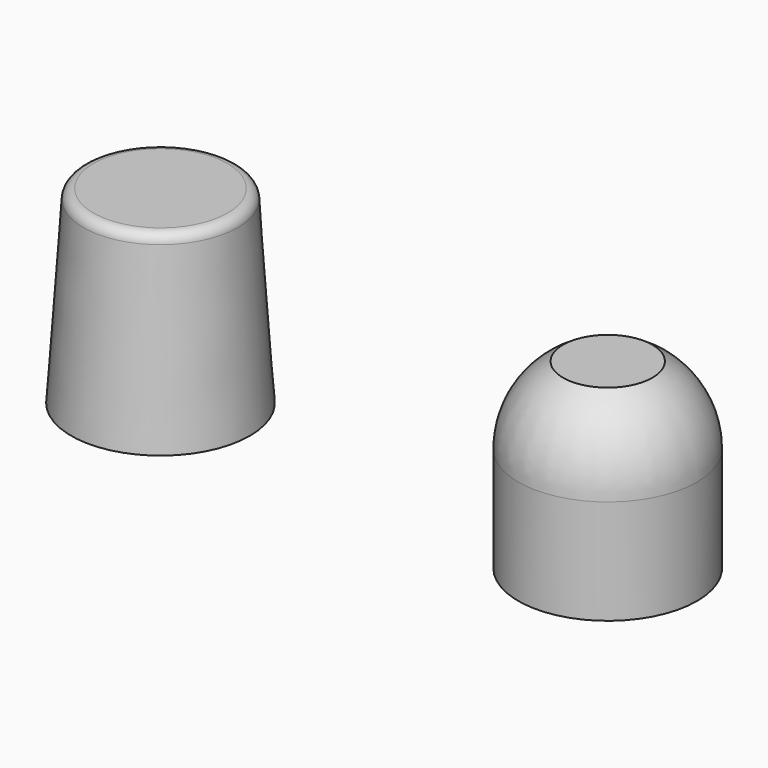
from build123d import *


with BuildPart() as f1:
    # F0 (on Front) → F1 (revolve)
    with BuildSketch(Plane.XZ):
        with BuildLine():
            Line((0, 3.7), (0, 0))
            Line((0, 0), (1.75, 0))
            Line((1.75, 0), (1.512603, 3.513483))
            ThreePointArc((1.512603, 3.513483), (1.449629, 3.64611), (1.313057, 3.7))
            Line((1.313057, 3.7), (0, 3.7))
        make_face()
    revolve(axis=Axis((0, 0, 1.85), (0, 0, 1)))


with BuildPart() as f3:
    # F2 (on Front) → F3 (revolve)
    with BuildSketch(Plane.XZ):
        with BuildLine():
            Line((8.759068, 2.05), (8.759068, 0))
            Line((8.759068, 0), (10.509068, 0))
            Line((10.509068, 0), (10.509068, 2.05))
            ThreePointArc((10.509068, 2.05), (10.274612, 2.925), (9.634068, 3.565544))
            Line((9.634068, 3.565544), (8.759068, 3.565544))
            Line((8.759068, 3.565544), (8.759068, 2.05))
        make_face()
    revolve(axis=Axis((8.759068, 0, 1.025), (0, 0, 1)))


solid = Compound([f1.part, f3.part])
